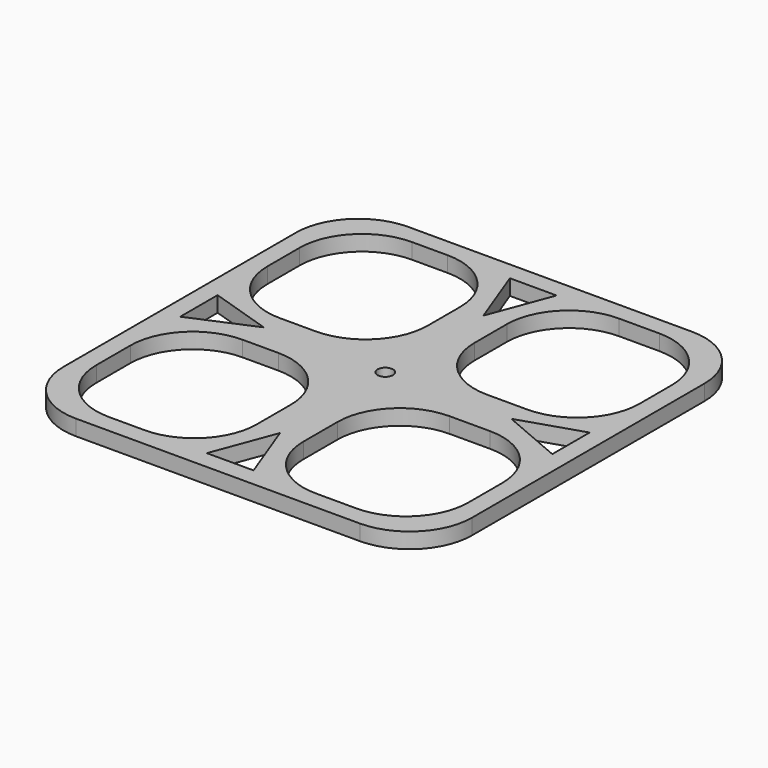
from build123d import *

# Parameters (mm, degrees)
F0_R     = 6.35
F1_DEPTH = 12.7
F3_R     = 6.35
F4_DEPTH = 12.7


with BuildPart() as f1:
    # F0 (on Top) → F1 (new body)
    with BuildSketch(Plane.XY):
        with BuildLine():
            ThreePointArc((-163.4358839095, -121.5245512031), (-148.5569083937, -157.4455756873), (-112.6358839095, -172.3245512031))
            Line((-112.6358839095, -172.3245512031), (119.0192133605, -172.3245512031))
            ThreePointArc((119.0192133605, -172.3245512031), (154.9402378448, -157.4455756873), (169.8192133605, -121.5245512031))
            Line((169.8192133605, -121.5245512031), (169.8192133605, 115.6596517303))
            ThreePointArc((169.8192133605, 115.6596517303), (154.9402378448, 151.5806762145), (119.0192133605, 166.4596517303))
            Line((119.0192133605, 166.4596517303), (-112.6358839095, 166.4596517303))
            ThreePointArc((-112.6358839095, 166.4596517303), (-148.5569083937, 151.5806762145), (-163.4358839095, 115.6596517303))
            Line((-163.4358839095, 115.6596517303), (-163.4358839095, -121.5245512031))
        make_face()
        Polygon((-17.7260840714, -157.4455756873), (1.3239159286, -106.6455756873), (20.3739159286, -157.4455756873), align=None, mode=Mode.SUBTRACT)
        Polygon((-148.5569083937, -21.0277362994), (-148.5569083937, 17.0722637006), (-97.7569083937, 0.7111747481), align=None, mode=Mode.SUBTRACT)
        with Locations((1.3239159286, 0.7111747481)):
            Circle(F0_R, mode=Mode.SUBTRACT)
        Polygon((20.3739159286, 151.5806762145), (1.3239159286, 100.7806762145), (-17.7260840714, 151.5806762145), align=None, mode=Mode.SUBTRACT)
        Polygon((154.9402378448, -21.0277362994), (104.1402378448, 0.7111747481), (154.9402378448, 17.0722637006), align=None, mode=Mode.SUBTRACT)
    extrude(amount=F1_DEPTH)


with BuildPart() as f4:
    # F3 (on Top) → F4 (new body)
    with BuildSketch(Plane.XY):
        with BuildLine():
            ThreePointArc((-163.4358839095, -121.5245512031), (-148.5569083937, -157.4455756873), (-112.6358839095, -172.3245512031))
            Line((-112.6358839095, -172.3245512031), (119.0192133605, -172.3245512031))
            ThreePointArc((119.0192133605, -172.3245512031), (154.9402378448, -157.4455756873), (169.8192133605, -121.5245512031))
            Line((169.8192133605, -121.5245512031), (169.8192133605, 115.6596517303))
            ThreePointArc((169.8192133605, 115.6596517303), (154.9402378448, 151.5806762145), (119.0192133605, 166.4596517303))
            Line((119.0192133605, 166.4596517303), (-112.6358839095, 166.4596517303))
            ThreePointArc((-112.6358839095, 166.4596517303), (-148.5569083937, 151.5806762145), (-163.4358839095, 115.6596517303))
            Line((-163.4358839095, 115.6596517303), (-163.4358839095, -121.5245512031))
        make_face()
        with BuildLine():
            ThreePointArc((-68.5260840714, -21.0277362994), (-32.6050595871, -35.9067118152), (-17.7260840714, -71.8277362994))
            Line((-17.7260840714, -71.8277362994), (-17.7260840714, -106.6455756873))
            ThreePointArc((-17.7260840714, -106.6455756873), (-32.6050595871, -142.5666001716), (-68.5260840714, -157.4455756873))
            Line((-68.5260840714, -157.4455756873), (-97.7569083937, -157.4455756873))
            ThreePointArc((-97.7569083937, -157.4455756873), (-133.677932878, -142.5666001716), (-148.5569083937, -106.6455756873))
            Line((-148.5569083937, -106.6455756873), (-148.5569083937, -71.8277362994))
            ThreePointArc((-148.5569083937, -71.8277362994), (-133.677932878, -35.9067118152), (-97.7569083937, -21.0277362994))
            Line((-97.7569083937, -21.0277362994), (-68.5260840714, -21.0277362994))
        make_face(mode=Mode.SUBTRACT)
        Polygon((-17.7260840714, -157.4455756873), (1.3239159286, -106.6455756873), (20.3739159286, -157.4455756873), align=None, mode=Mode.SUBTRACT)
        with BuildLine():
            Line((71.1739159286, -21.0277362994), (104.1402378448, -21.0277362994))
            ThreePointArc((104.1402378448, -21.0277362994), (140.0612623291, -35.9067118152), (154.9402378448, -71.8277362994))
            Line((154.9402378448, -71.8277362994), (154.9402378448, -106.6455756873))
            ThreePointArc((154.9402378448, -106.6455756873), (140.0612623291, -142.5666001716), (104.1402378448, -157.4455756873))
            Line((104.1402378448, -157.4455756873), (71.1739159286, -157.4455756873))
            ThreePointArc((71.1739159286, -157.4455756873), (35.2528914443, -142.5666001716), (20.3739159286, -106.6455756873))
            Line((20.3739159286, -106.6455756873), (20.3739159286, -71.8277362994))
            ThreePointArc((20.3739159286, -71.8277362994), (35.2528914443, -35.9067118152), (71.1739159286, -21.0277362994))
        make_face(mode=Mode.SUBTRACT)
        Polygon((-148.5569083937, -21.0277362994), (-148.5569083937, 17.0722637006), (-97.7569083937, 0.7111747481), align=None, mode=Mode.SUBTRACT)
        with Locations((1.3239159286, 0.7111747481)):
            Circle(F3_R, mode=Mode.SUBTRACT)
        with BuildLine():
            ThreePointArc((-68.5260840714, 151.5806762145), (-32.6050595871, 136.7017006988), (-17.7260840714, 100.7806762145))
            Line((-17.7260840714, 100.7806762145), (-17.7260840714, 67.8722637006))
            ThreePointArc((-17.7260840714, 67.8722637006), (-32.6050595871, 31.9512392163), (-68.5260840714, 17.0722637006))
            Line((-68.5260840714, 17.0722637006), (-97.7569083937, 17.0722637006))
            ThreePointArc((-97.7569083937, 17.0722637006), (-133.677932878, 31.9512392163), (-148.5569083937, 67.8722637006))
            Line((-148.5569083937, 67.8722637006), (-148.5569083937, 100.7806762145))
            ThreePointArc((-148.5569083937, 100.7806762145), (-133.677932878, 136.7017006988), (-97.7569083937, 151.5806762145))
            Line((-97.7569083937, 151.5806762145), (-68.5260840714, 151.5806762145))
        make_face(mode=Mode.SUBTRACT)
        Polygon((20.3739159286, 151.5806762145), (1.3239159286, 100.7806762145), (-17.7260840714, 151.5806762145), align=None, mode=Mode.SUBTRACT)
        Polygon((154.9402378448, -21.0277362994), (104.1402378448, 0.7111747481), (154.9402378448, 17.0722637006), align=None, mode=Mode.SUBTRACT)
        with BuildLine():
            ThreePointArc((154.9402378448, 67.8722637006), (140.0612623291, 31.9512392163), (104.1402378448, 17.0722637006))
            Line((104.1402378448, 17.0722637006), (71.1739159286, 17.0722637006))
            ThreePointArc((71.1739159286, 17.0722637006), (35.2528914443, 31.9512392163), (20.3739159286, 67.8722637006))
            Line((20.3739159286, 67.8722637006), (20.3739159286, 100.7806762145))
            ThreePointArc((20.3739159286, 100.7806762145), (35.2528914443, 136.7017006988), (71.1739159286, 151.5806762145))
            Line((71.1739159286, 151.5806762145), (104.1402378448, 151.5806762145))
            ThreePointArc((104.1402378448, 151.5806762145), (140.0612623291, 136.7017006988), (154.9402378448, 100.7806762145))
            Line((154.9402378448, 100.7806762145), (154.9402378448, 67.8722637006))
        make_face(mode=Mode.SUBTRACT)
    extrude(amount=F4_DEPTH)


solid = f4.part
